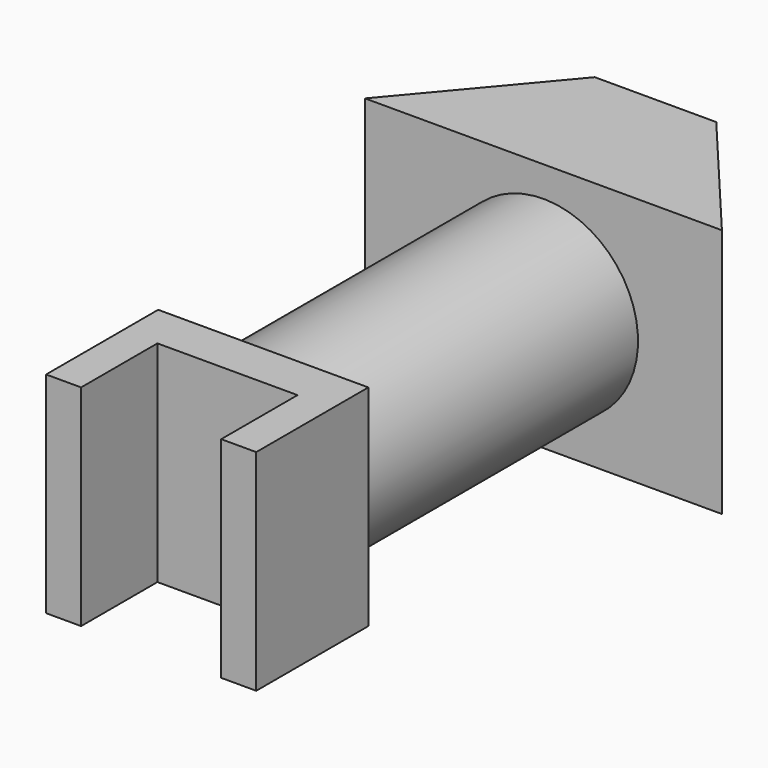
from build123d import *

# Parameters (mm, degrees)
F0_W     = 7.62
F0_H     = 7.62
F1_DEPTH = 5.08
F3_DEPTH = 25.4
F4_R     = 3.429
F5_DEPTH = 12.7
F6_W     = 12.942478
F6_H     = 9.058966
F7_DEPTH = 5.08
F9_DEPTH = 25.4


with BuildPart() as f1:
    # F0 (on Front) → F1 (new body)
    with BuildSketch(Plane.XZ):
        Rectangle(F0_W, F0_H)
    extrude(amount=F1_DEPTH)

    # F2 (on face) → F3 (cut)
    with BuildSketch(Plane(origin=(0, 0, -3.81), x_dir=(1, 0, 0), z_dir=(0, 0, -1))):
        Polygon((-2.54, 1.621454), (0, 1.621454), (2.54, 1.621454), (2.54, 5.08), (0, 5.08), (-2.54, 5.08), align=None)
    extrude(amount=-F3_DEPTH, mode=Mode.SUBTRACT)


with BuildPart() as f5:
    # F4 (on face) → F5 (new body)
    with BuildSketch(Plane(origin=(0, 0, 0), x_dir=(-1, 0, 0), z_dir=(0, 1, 0))):
        Circle(F4_R)
    extrude(amount=F5_DEPTH)

    # F6 (on face) → F7 (join)
    with BuildSketch(Plane(origin=(0, 12.7, 0), x_dir=(-1, 0, 0), z_dir=(0, 1, 0))):
        Rectangle(F6_W, F6_H)
    extrude(amount=F7_DEPTH)

    # F8 (on face) → F9 (cut)
    with BuildSketch(Plane(origin=(0, 0, -4.529483), x_dir=(1, 0, 0), z_dir=(0, 0, -1))):
        Polygon((-2.202071, -17.78), (-6.471239, -12.7), (-6.471239, -17.78), align=None)
        Polygon((6.471239, -17.78), (6.471239, -12.7), (2.202071, -17.78), align=None)
    extrude(amount=-F9_DEPTH, mode=Mode.SUBTRACT)


solid = Compound([f1.part, f5.part])
